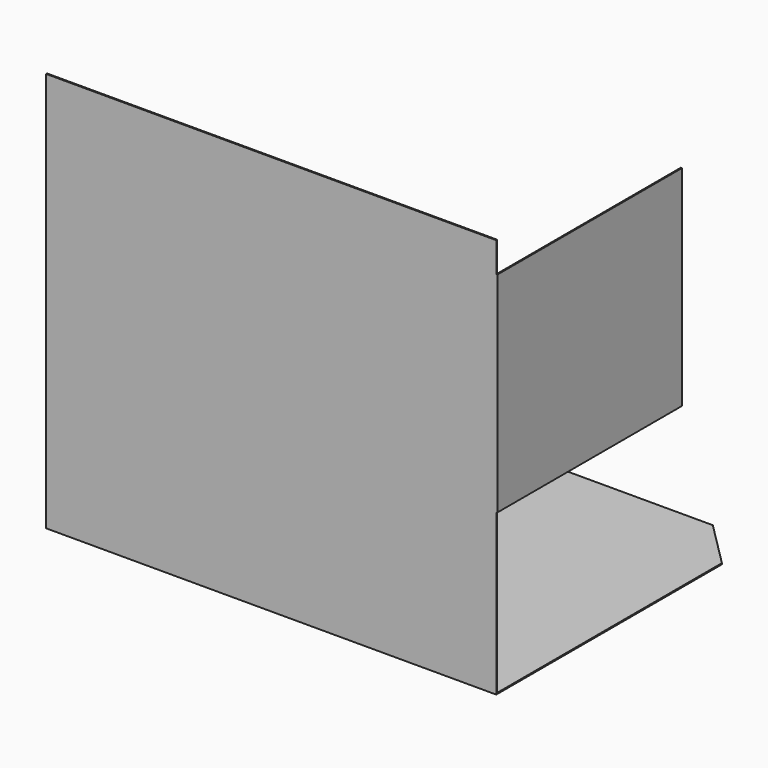
from build123d import *

# Parameters (mm, degrees)
PAD_DEPTH    = 10
SKETCH001_W  = 4013.2
SKETCH001_H  = 3556
PAD001_DEPTH = 10
SKETCH002_W  = 2057.4
SKETCH002_H  = 1866.9
PAD002_DEPTH = 10


with BuildPart() as part:
    # Sketch → Pad (new body)
    with BuildSketch(Plane.XY):
        Polygon((0, 0), (0, 2235.2), (685.8, 2921), (3606.8, 2921), (4013.2, 2514.6), (4013.2, 0), align=None)
    extrude(amount=-PAD_DEPTH)

    # Sketch001 → Pad001 (join)
    with BuildSketch(Plane.XZ):
        with Locations((2006.6, 1778)):
            Rectangle(SKETCH001_W, SKETCH001_H)
    extrude(amount=-PAD001_DEPTH)

    # Sketch002 (on Face7 of Pad001) → Pad002 (join)
    with BuildSketch(Plane.YZ.offset(4013.2)):
        with Locations((1028.7, 2355.85)):
            Rectangle(SKETCH002_W, SKETCH002_H)
    extrude(amount=PAD002_DEPTH)


solid = part.part
